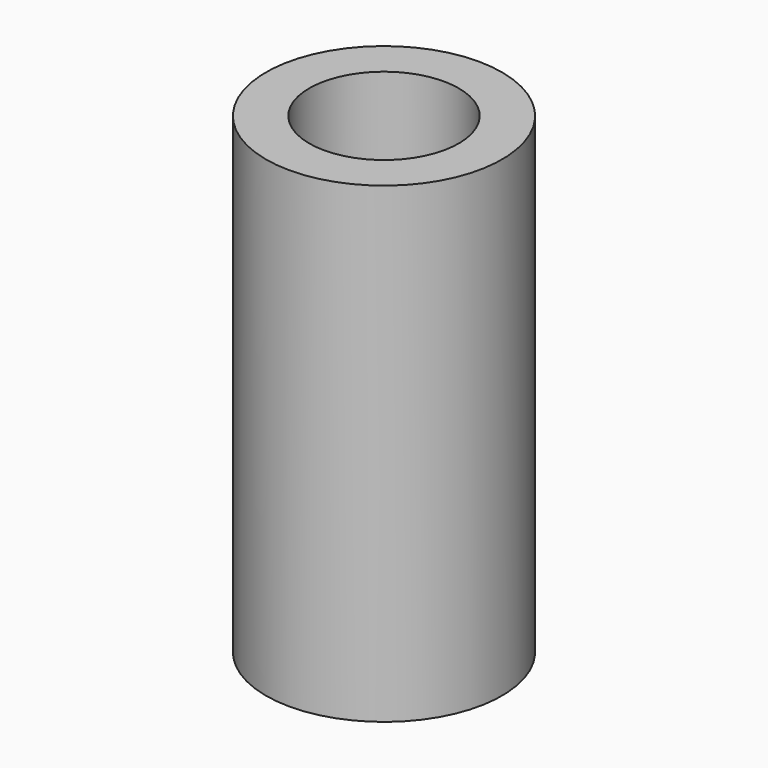
from build123d import *

# Parameters (mm, degrees)
F2_R     = 2
F3_DEPTH = 25


with BuildPart() as f1:
    # F0 (on Right) → F1 (revolve)
    with BuildSketch(Plane.YZ):
        Polygon((-7.5, 0), (-1.25, 0), (-1.25, 2), (-4.75, 2), (-4.75, 30), (-7.5, 30), align=None)
    revolve(axis=Axis((0, 0, 3.498908), (0, 0, 1)))

    # F2 (on Right) → F3 (cut)
    with BuildSketch(Plane.YZ):
        with Locations((0, 15)):
            Circle(F2_R)
    extrude(amount=-F3_DEPTH, mode=Mode.SUBTRACT)


solid = f1.part
